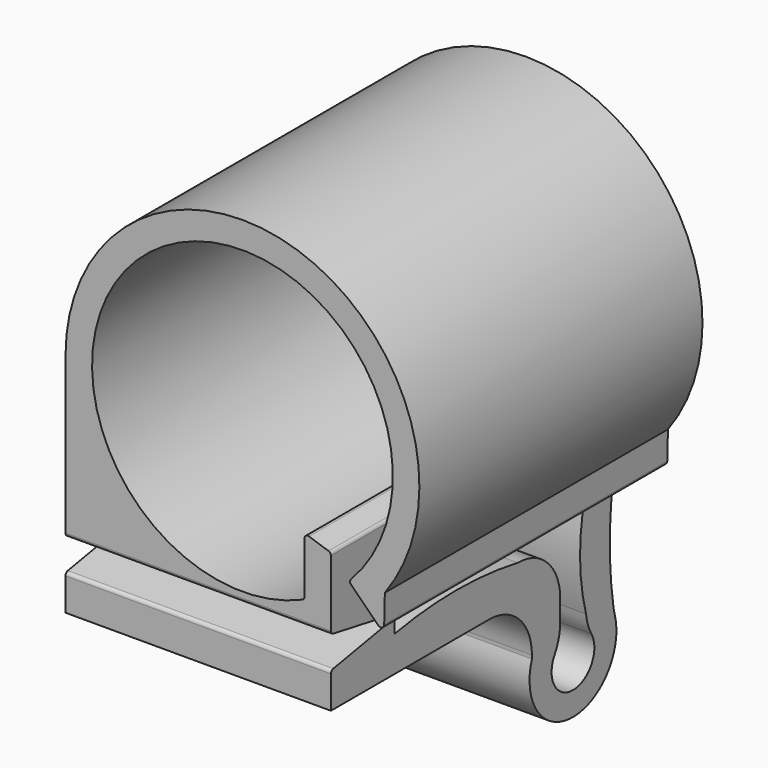
from build123d import *

# Parameters (mm, degrees)
F0_R      = 8.5
F1_DEPTH  = 20
F2_W      = 14.2
F2_H      = 5.2
F3_DEPTH  = 15.001
F5_DEPTH  = 15
F6_W      = 1
F6_H      = 2.6394567484
F7_DEPTH  = 20.001
F8_W      = 1.5
F8_H      = 3.5
F9_DEPTH  = 20
F11_DEPTH = 20
F13_DEPTH = 15
F15_DEPTH = 15.001
F16_R     = 3
F17_R     = 0.2
F19_DEPTH = 15


with BuildPart() as f1:
    # F0 (on Front) → F1 (new body)
    with BuildSketch(Plane.XZ):
        with BuildLine():
            Line((0, 18), (0, 0))
            Line((0, 0), (15, 0))
            Line((15, 0), (15, 9.3397459622))
            ThreePointArc((15, 9.3397459622), (15, 26.6602540378), (0, 18))
        make_face()
        with Locations((10, 18)):
            Circle(F0_R, mode=Mode.SUBTRACT)
    extrude(amount=F1_DEPTH)

    # F2 (on face) → F3 (cut, through all)
    with BuildSketch(Plane.YZ.offset(15)):
        Polygon((-3.8, 2), (-2, 2), (-2, 9), (-20, 9), (-20, 7.2), (-3.8, 7.2), align=None)
        with Locations((-12.9, 2.6)):
            Rectangle(F2_W, F2_H)
    extrude(amount=-F3_DEPTH, mode=Mode.SUBTRACT)

    # F4 (on face) → F5 (join, through all)
    with BuildSketch(Plane.YZ.offset(15)):
        Polygon((-20, 7.2), (-15.5, 7.2), (-15.5, 8), align=None)
        Polygon((-15.5, 8.2), (-15.5, 9), (-20, 9), align=None)
    extrude(amount=-F5_DEPTH)

    # F6 (on face) → F7 (cut, through all)
    with BuildSketch(Plane.XZ.offset(20)):
        with Locations((15.5, 10.6594743364)):
            Rectangle(F6_W, F6_H)
    extrude(amount=-F7_DEPTH, mode=Mode.SUBTRACT)

    # F8 (on face) → F9 (join, through all)
    with BuildSketch(Plane.XZ.offset(20)):
        with Locations((14.25, 11.8130682288)):
            Rectangle(F8_W, F8_H)
        Polygon((18.0472665318, 12.0635447138), (16, 11.9792027106), (18, 10), align=None)
    extrude(amount=-F9_DEPTH)

    # F10 (on face) → F11 (cut, through all)
    with BuildSketch(Plane.XZ.offset(20)):
        Polygon((16, 11.9792027106), (16, 10), (17.0662110755, 10), (17.0662110755, 10.9240787853), align=None)
        Polygon((15, 13.5630682288), (13.5, 13.5630682288), (15, 13.0630682288), align=None)
    extrude(amount=-F11_DEPTH, mode=Mode.SUBTRACT)

    # F12 (on face) → F13 (join, through all)
    with BuildSketch(Plane.YZ.offset(15)):
        with BuildLine():
            Line((0, 2), (-5.8, 2))
            ThreePointArc((-5.8, 2), (-2.9, -2.06757233), (0, 2))
        make_face()
    extrude(amount=-F13_DEPTH)

    # F14 (on face) → F15 (cut, through all)
    with BuildSketch(Plane.YZ.offset(15)):
        with BuildLine():
            Line((-2, 2), (-3.8, 2))
            ThreePointArc((-3.8, 2), (-2.9, -0.723853077), (-2, 2))
        make_face()
        with BuildLine():
            Line((0, 2), (0, 9))
            ThreePointArc((0, 9), (-0.3, 5.5), (0, 2))
        make_face()
    extrude(amount=-F15_DEPTH, mode=Mode.SUBTRACT)

    # F16
    f16_edges = [f1.edges().sort_by_distance(p)[0] for p in [
        (7.5, -3.8, 7.2),
        (7.5, -5.8, 5.2),
        (7.5, -3.8, 2),
        (7.5, -2, 2),
        (7.5, 0, 2),
        (7.5, 0, 9),
    ]]
    fillet(f16_edges, radius=F16_R)

    # F17
    f17_edges = [f1.edges().sort_by_distance(p)[0] for p in [
        (7.5, -20, 7.2),
        (7.5, -20, 9),
        (7.5, -15.5, 8.2),
        (7.5, -15.5, 8),
        (7.5, -2, 9),
        (18, -10, 10),
        (16, -10, 11.979203),
        (13.5, -10, 13.563068),
        (15, -10, 13.063068),
        (13.5, -10, 10.254033),
    ]]
    fillet(f17_edges, radius=F17_R)

    # F18 (on face) → F19 (join, through all)
    with BuildSketch(Plane.YZ.offset(15)):
        with BuildLine():
            Line((-2.2, 9), (-15.5, 9))
            ThreePointArc((-15.5, 9), (-8.85, 8.6), (-2.2, 9))
        make_face()
        with BuildLine():
            Line((-15.5, 7.2), (-6.8, 7.2))
            ThreePointArc((-6.8, 7.2), (-11.15, 7.6), (-15.5, 7.2))
        make_face()
        with BuildLine():
            Line((-1.5938824883, 1.5457121977), (-2, 8.8))
            ThreePointArc((-2, 8.8), (-2.381934709, 5.1401063518), (-1.5938824883, 1.5457121977))
        make_face()
    extrude(amount=-F19_DEPTH)


solid = f1.part
